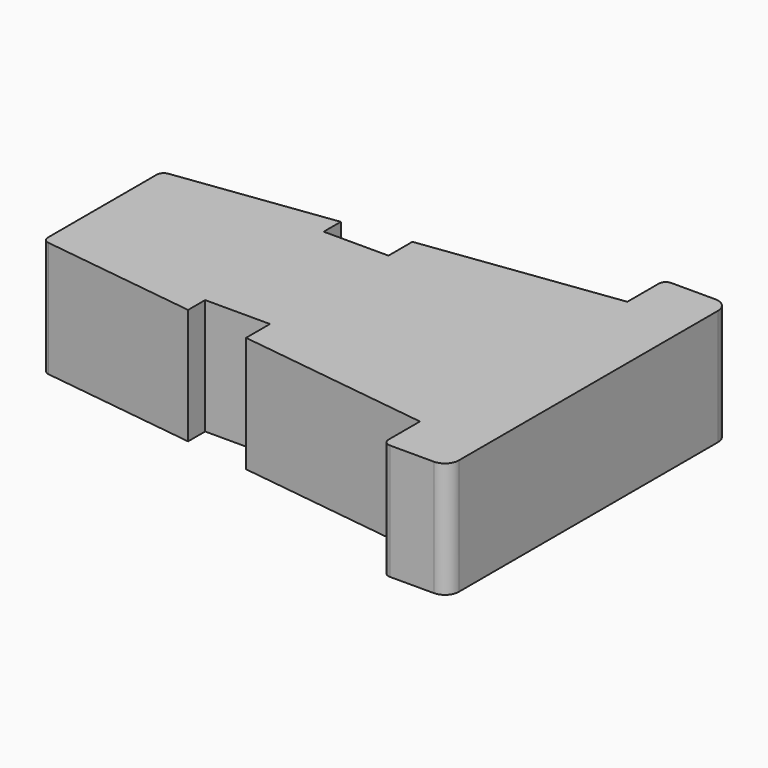
from build123d import *

# Parameters (mm, degrees)
F1_DEPTH = 25
F2_R     = 1.5


with BuildPart() as f1:
    # F0 (on Top) → F1 (new body)
    with BuildSketch(Plane.XY):
        with BuildLine():
            Line((0, 32), (0, 1.5))
            Line((0, 1.5), (0, 1.315183))
            ThreePointArc((0, 1.315183), (0.372135, 0.326284), (1.303896, -0.171942))
            Line((1.303896, -0.171942), (35, -4.615385))
            Line((35, -4.615385), (35, 0))
            Line((35, 0), (49, 0))
            Line((49, 0), (49, -6.461538))
            Line((49, -6.461538), (91, -12))
            Line((91, -12), (91, -20.5))
            ThreePointArc((91, -20.5), (91.43934, -21.56066), (92.5, -22))
            Line((92.5, -22), (102, -22))
            ThreePointArc((102, -22), (104.12132, -21.12132), (105, -19))
            Line((105, -19), (105, 0))
            Line((105, 0), (105, 1.5))
            Line((105, 1.5), (105, 51))
            ThreePointArc((105, 51), (104.12132, 53.12132), (102, 54))
            Line((102, 54), (92.5, 54))
            ThreePointArc((92.5, 54), (91.43934, 53.56066), (91, 52.5))
            Line((91, 52.5), (91, 44))
            Line((91, 44), (49, 38.461538))
            Line((49, 38.461538), (49, 32))
            Line((49, 32), (35, 32))
            Line((35, 32), (35, 36.615385))
            Line((35, 36.615385), (0, 32))
        make_face()
    extrude(amount=F1_DEPTH)

    # F2
    f2_edges = [f1.edges().sort_by_distance(p)[0] for p in [
        (0, 32, 12.5),
    ]]
    fillet(f2_edges, radius=F2_R)


solid = f1.part
